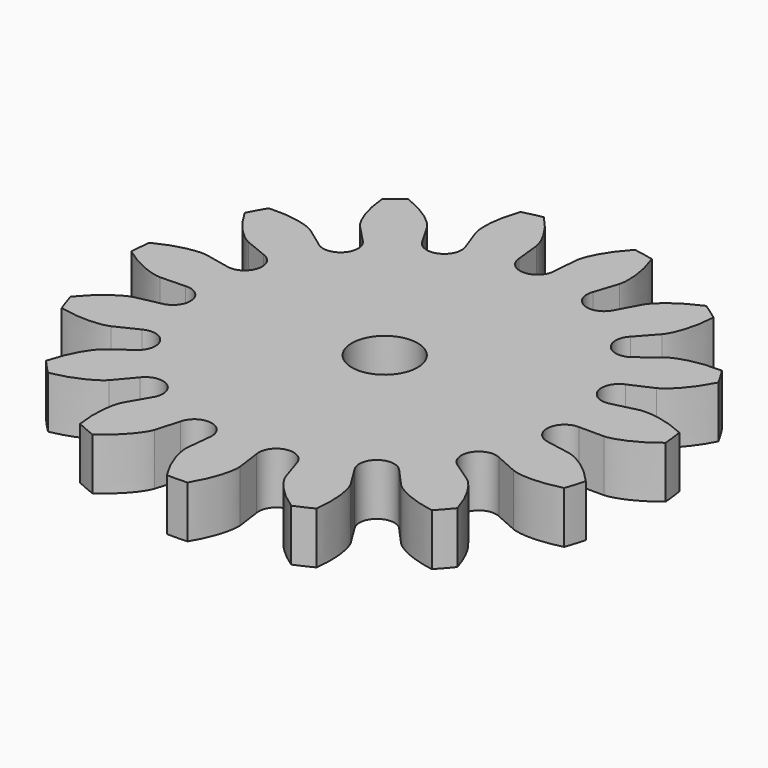
from build123d import *

# Parameters (mm, degrees)
F3_DEPTH  = 6
F5_DEPTH  = 6
F2_R      = 25.5
F6_DEPTH  = 5
F7_COUNT  = 15
F9_R      = 3.175
F10_DEPTH = 25


with BuildPart() as f3:
    # F1 (on Top) → F3 (new body)
    with BuildSketch(Plane.XY):
        with BuildLine():
            ThreePointArc((24.6388089147, -6.5710802204), (25.2837855881, -3.313636422), (25.5, 0))
            ThreePointArc((25.5, 0), (25.4790895537, 1.0324705887), (25.4163925085, 2.0632478895))
            add(Edge.make_bspline(
                [(21.1430839677, 0), (21.2021780081, 0.0029500133), (21.1733451769, 8.70967e-05), (21.407395854, 0.0233268392), (21.6736268748, 0.076933834), (22.0820919993, 0.1845353372), (22.5833083643, 0.3612527634), (23.1768188309, 0.6182529802), (23.8754121878, 0.993204704), (24.5515467167, 1.4028840979), (25.2871255648, 1.9645433771), (25.4132856834, 2.0608743163), (25.4163925085, 2.0632478895)],
                knots=[0, 0, 0, 0, 0.0334560849, 0.0914017211, 0.1662090091, 0.2547221185, 0.3550865192, 0.4660435214, 0.586666489, 0.7162363334, 0.8541739608, 0.8578317352, 0.8578317352, 0.8578317352, 0.8578317352], degree=3))
            Line((21.1430839677, 0), (18.75, 0))
            ThreePointArc((18.75, 0), (18.6744252999, -1.6817668441), (18.4483104301, -3.3499764589))
            Line((18.4483104301, -3.3499764589), (20.8028894125, -3.7775377899))
            add(Edge.make_bspline(
                [(20.8028894125, -3.7775377899), (20.860505558, -3.7909983982), (20.8326481544, -3.7830301166), (21.0587807921, -3.8477126895), (21.3111504106, -3.9480234166), (21.6938186194, -4.1268721892), (22.1553970662, -4.3902962404), (22.6934408344, -4.7492010869), (23.3138028432, -5.2429342654), (23.9058627555, -5.7668237261), (24.5292569727, -6.4508683429), (24.6361761542, -6.5681897561), (24.6388089147, -6.5710802204)],
                knots=[0, 0, 0, 0, 0.0334560849, 0.0914017211, 0.1662090091, 0.2547221185, 0.3550865192, 0.4660435214, 0.586666489, 0.7162363334, 0.8541739608, 0.8578317352, 0.8578317352, 0.8578317352, 0.8578317352], degree=3))
        make_face()
    extrude(amount=F3_DEPTH)

    # F4 (on face) → F5 (join)
    with BuildSketch(Plane(origin=(0, 0, 0), x_dir=(1, 0, 0), z_dir=(0, 0, -1))):
        with BuildLine():
            ThreePointArc((18.75, 0), (18.6744252999, 1.6817668441), (18.4483104301, 3.3499764589))
            ThreePointArc((18.4483104301, 3.3499764589), (16.9977466919, 1.5307698284), (18.75, 0))
        make_face()
    extrude(amount=-F5_DEPTH)


with BuildPart() as f6:
    # F2 (on Top) → F6 (new body)
    with BuildSketch(Plane.XY):
        Circle(F2_R)
    extrude(amount=F6_DEPTH)


with BuildPart() as f7_1:
    # F7: instance of F3
    add(f3.part.rotate(Axis((0, 0, 5), (0, 0, 1)), 1 * 360 / F7_COUNT))


with BuildPart() as f7_2:
    # F7: instance of F3
    add(f3.part.rotate(Axis((0, 0, 5), (0, 0, 1)), 2 * 360 / F7_COUNT))


with BuildPart() as f7_3:
    # F7: instance of F3
    add(f3.part.rotate(Axis((0, 0, 5), (0, 0, 1)), 3 * 360 / F7_COUNT))


with BuildPart() as f7_4:
    # F7: instance of F3
    add(f3.part.rotate(Axis((0, 0, 5), (0, 0, 1)), 4 * 360 / F7_COUNT))


with BuildPart() as f7_5:
    # F7: instance of F3
    add(f3.part.rotate(Axis((0, 0, 5), (0, 0, 1)), 5 * 360 / F7_COUNT))


with BuildPart() as f7_6:
    # F7: instance of F3
    add(f3.part.rotate(Axis((0, 0, 5), (0, 0, 1)), 6 * 360 / F7_COUNT))


with BuildPart() as f7_7:
    # F7: instance of F3
    add(f3.part.rotate(Axis((0, 0, 5), (0, 0, 1)), 7 * 360 / F7_COUNT))


with BuildPart() as f7_8:
    # F7: instance of F3
    add(f3.part.rotate(Axis((0, 0, 5), (0, 0, 1)), 8 * 360 / F7_COUNT))


with BuildPart() as f7_9:
    # F7: instance of F3
    add(f3.part.rotate(Axis((0, 0, 5), (0, 0, 1)), 9 * 360 / F7_COUNT))


with BuildPart() as f7_10:
    # F7: instance of F3
    add(f3.part.rotate(Axis((0, 0, 5), (0, 0, 1)), 10 * 360 / F7_COUNT))


with BuildPart() as f7_11:
    # F7: instance of F3
    add(f3.part.rotate(Axis((0, 0, 5), (0, 0, 1)), 11 * 360 / F7_COUNT))


with BuildPart() as f7_12:
    # F7: instance of F3
    add(f3.part.rotate(Axis((0, 0, 5), (0, 0, 1)), 12 * 360 / F7_COUNT))


with BuildPart() as f7_13:
    # F7: instance of F3
    add(f3.part.rotate(Axis((0, 0, 5), (0, 0, 1)), 13 * 360 / F7_COUNT))


with BuildPart() as f7_14:
    # F7: instance of F3
    add(f3.part.rotate(Axis((0, 0, 5), (0, 0, 1)), 14 * 360 / F7_COUNT))


with BuildPart() as f6_1:
    add(f6.part)

    # F8: cut F7_5, F7_6, F7_7, F7_8, F7_9, F7_10, F7_11, F7_12, F7_13, F7_14, F3, F7_1, F7_2, F7_3, F7_4
    add(f7_5.part, mode=Mode.SUBTRACT)
    add(f7_6.part, mode=Mode.SUBTRACT)
    add(f7_7.part, mode=Mode.SUBTRACT)
    add(f7_8.part, mode=Mode.SUBTRACT)
    add(f7_9.part, mode=Mode.SUBTRACT)
    add(f7_10.part, mode=Mode.SUBTRACT)
    add(f7_11.part, mode=Mode.SUBTRACT)
    add(f7_12.part, mode=Mode.SUBTRACT)
    add(f7_13.part, mode=Mode.SUBTRACT)
    add(f7_14.part, mode=Mode.SUBTRACT)
    add(f3.part, mode=Mode.SUBTRACT)
    add(f7_1.part, mode=Mode.SUBTRACT)
    add(f7_2.part, mode=Mode.SUBTRACT)
    add(f7_3.part, mode=Mode.SUBTRACT)
    add(f7_4.part, mode=Mode.SUBTRACT)

    # F9 (on face) → F10 (cut)
    with BuildSketch(Plane(origin=(0, 0, 0), x_dir=(1, 0, 0), z_dir=(0, 0, -1))):
        Circle(F9_R)
    extrude(amount=-F10_DEPTH, mode=Mode.SUBTRACT)


solid = f6_1.part
